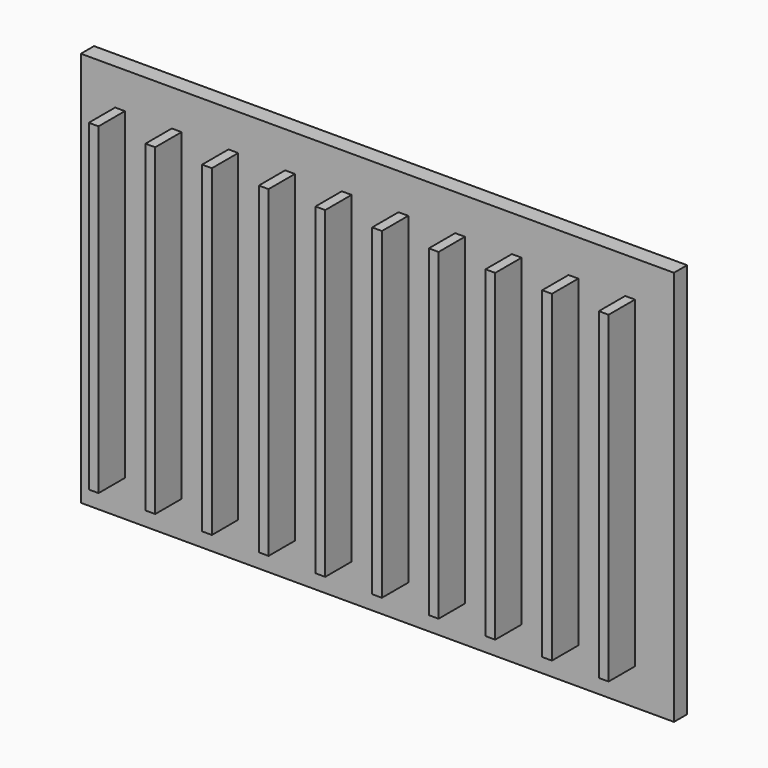
from build123d import *

# Parameters (mm, degrees)
F0_W     = 114.3
F0_H     = 76.2
F1_DEPTH = 3.175
F2_W     = 1.881292
F2_H     = 62.23
F3_DEPTH = 6.35


with BuildPart() as f1:
    # F0 (on Front) → F1 (new body)
    with BuildSketch(Plane.XZ):
        Rectangle(F0_W, F0_H)
    extrude(amount=-F1_DEPTH)

    # F2 (on face) → F3 (join)
    with BuildSketch(Plane.XZ):
        with Locations((-49.605354, 0)):
            Rectangle(F2_W, F2_H)
        with Locations((-38.683354, 0)):
            Rectangle(F2_W, F2_H)
        with Locations((-27.761354, 0)):
            Rectangle(F2_W, F2_H)
        with Locations((-16.839354, 0)):
            Rectangle(F2_W, F2_H)
        with Locations((-5.917354, 0)):
            Rectangle(F2_W, F2_H)
        with Locations((5.004646, 0)):
            Rectangle(F2_W, F2_H)
        with Locations((15.926646, 0)):
            Rectangle(F2_W, F2_H)
        with Locations((26.848646, 0)):
            Rectangle(F2_W, F2_H)
        with Locations((37.770646, 0)):
            Rectangle(F2_W, F2_H)
        with Locations((48.692646, 0)):
            Rectangle(F2_W, F2_H)
    extrude(amount=F3_DEPTH)


solid = f1.part
